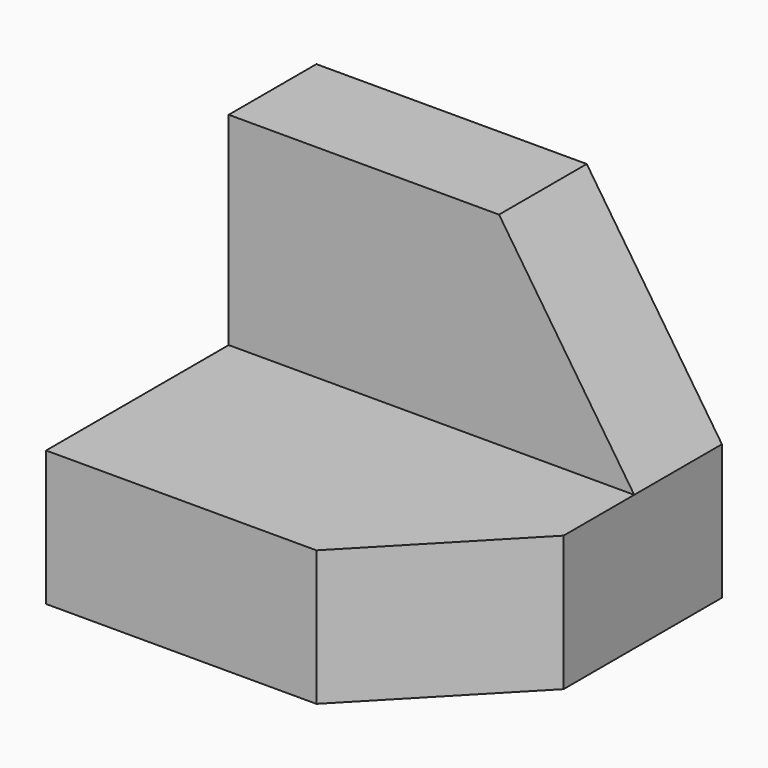
from build123d import *

# Parameters (mm, degrees)
F2_DEPTH = 38.1
F4_DEPTH = 10.301291
F6_DEPTH = 12.701


with BuildPart() as f2:
    # F0 (on Right) → F2 (new body)
    with BuildSketch(Plane.YZ):
        Polygon((-31.75, 0), (0, 0), (0, 31.75), (-10.300291, 31.75), (-10.300291, 12.7), (-31.75, 12.7), align=None)
    extrude(amount=F2_DEPTH)

    # F3 (on face) → F4 (cut, through all)
    with BuildSketch(Plane.XZ.offset(10.300291)):
        Polygon((38.1, 31.75), (25.4, 31.75), (38.1, 12.7), align=None)
    extrude(amount=-F4_DEPTH, mode=Mode.SUBTRACT)

    # F5 (on face) → F6 (cut, through all)
    with BuildSketch(Plane.XY.offset(12.7)):
        Polygon((38.1, -31.75), (38.1, -18.595289), (25.4, -31.75), align=None)
    extrude(amount=-F6_DEPTH, mode=Mode.SUBTRACT)


solid = f2.part
